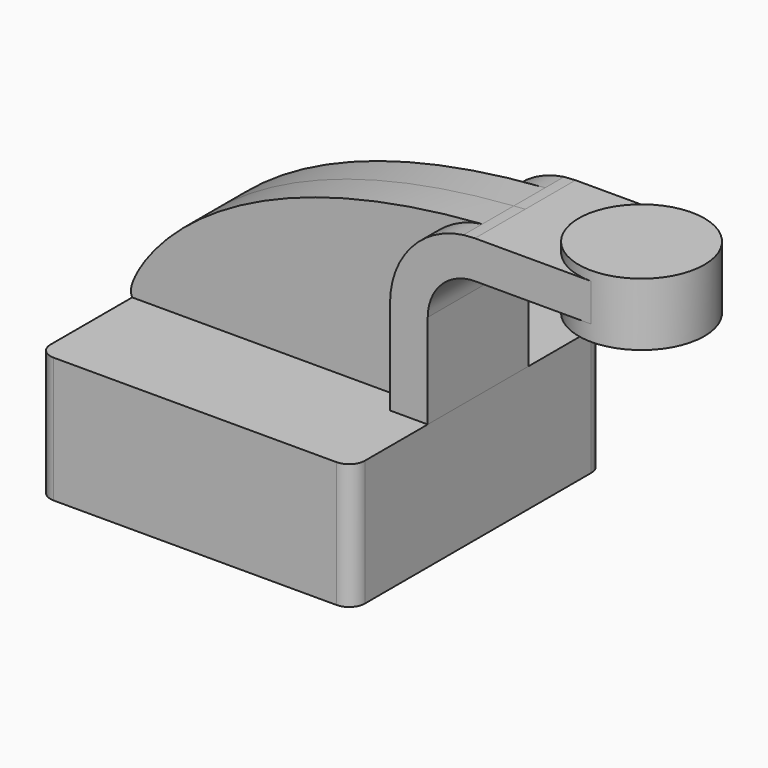
from build123d import *

# Parameters (mm, degrees)
F1_DEPTH = 50
F0_W     = 20
F0_H     = 12
F2_DEPTH = 20
F3_DEPTH = 12.5
F5_R     = 5


with BuildPart() as f1:
    # F0 (on Front) → F1 (new body, symmetric)
    with BuildSketch(Plane.XZ):
        Polygon((38, 20), (-50, 20), (-50, -20), (50, -20), (50, 20), align=None)
    extrude(amount=F1_DEPTH, both=True)

    # F5
    f5_edges = [f1.edges().sort_by_distance(p)[0] for p in [
        (-50, -50, 0),
        (50, -50, 0),
        (50, 50, 0),
        (-50, 50, 0),
    ]]
    fillet(f5_edges, radius=F5_R)


with BuildPart() as f2:
    # F0 (on Front) → F2 (new body, symmetric)
    with BuildSketch(Plane.XZ):
        with BuildLine():
            Line((38, 50), (38, 20))
            Line((38, 20), (50, 20))
            Line((50, 20), (50, 50))
            ThreePointArc((50, 50), (54.3933982822, 60.6066017178), (65, 65))
            Line((65, 65), (82, 65))
            Line((82, 65), (82, 77))
            Line((82, 77), (65, 77))
            add(Edge.make_bspline(
                [(61.3580444875, 76.7532457852), (62.5597999465, 76.8419007216), (63.7737478912, 76.9242092429), (65, 77)],
                knots=[0.9879056344, 0.9879056344, 0.9879056344, 0.9879056344, 1, 1, 1, 1], degree=3))
            ThreePointArc((61.3580444875, 76.7532457852), (44.6612094898, 67.757634994), (38, 50))
        make_face()
        with Locations((92, 71)):
            Rectangle(F0_W, F0_H)
    extrude(amount=F2_DEPTH, both=True)

    # F0 (on Front) → F4 (revolve)
    with BuildSketch(Plane.XZ):
        Polygon((102, 80), (102, 77), (102, 65), (102, 60), (122, 60), (122, 80), align=None)
    revolve(axis=Axis((102, 0, 70), (0, 0, 1)))


with BuildPart() as f3:
    # F0 (on Front) → F3 (new body, symmetric)
    with BuildSketch(Plane.XZ):
        with BuildLine():
            add(Edge.make_bspline(
                [(-50, 20), (-50.5007385187, 21.1618028945), (-51.0808425585, 27.4095380202), (-21.9899896666, 70.6045617), (61.3580444875, 76.7532457852)],
                knots=[0, 0, 0, 0, 0.1490980504, 0.9879056344, 0.9879056344, 0.9879056344, 0.9879056344], degree=3))
            Line((-50, 20), (38, 20))
            Line((38, 20), (38, 50))
            ThreePointArc((38, 50), (44.6612094898, 67.757634994), (61.3580444875, 76.7532457852))
        make_face()
    extrude(amount=F3_DEPTH, both=True)


solid = Compound([f1.part, f2.part, f3.part])
